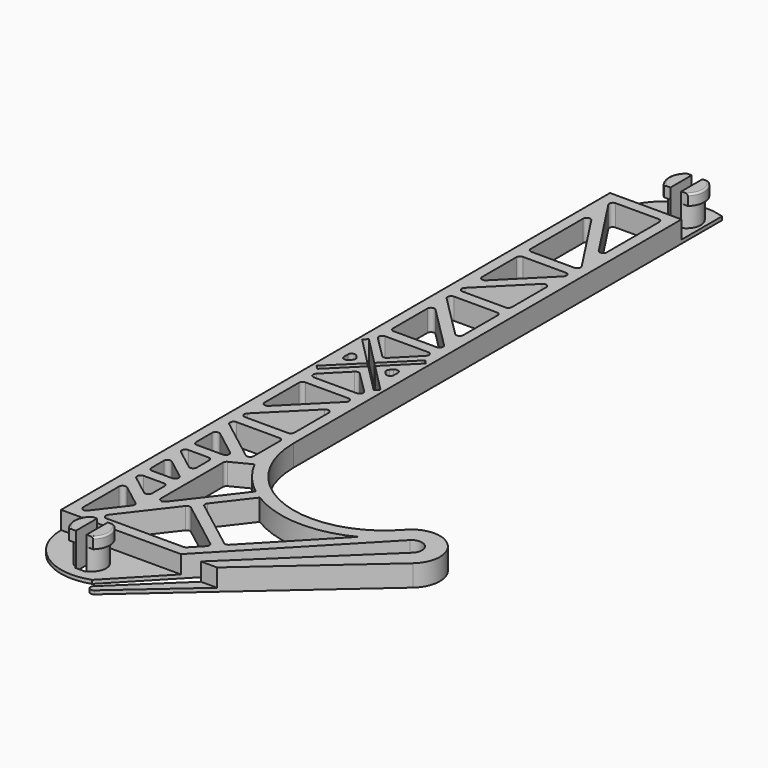
from build123d import *

# Parameters (mm, degrees)
PAD_DEPTH       = 6
POCKET_DEPTH    = 6.001
POCKET001_DEPTH = 6.001
SKETCH003_W     = 20
SKETCH003_H     = 15
SKETCH003_W_2   = 43.65183195
SKETCH003_H_2   = 17.970595096
POCKET002_DEPTH = 5
SKETCH004_R     = 4
PAD001_DEPTH    = 6
SKETCH005_W     = 3
SKETCH005_H     = 8
POCKET003_DEPTH = 7.001
PAD002_DEPTH    = 3
FILLET_R        = 0.5
FILLET001_R     = 0.5
FILLET002_R     = 0.5
FILLET003_R     = 0.5


with BuildPart() as part:
    # Sketch → Pad (new body)
    with BuildSketch(Plane.XY):
        with BuildLine():
            Line((148.7359710531, -99.0646793429), (148.7359710531, 92.9353206571))
            ThreePointArc((168.7359710531, 107.0774562808), (155.0757170152, 105.182769371), (148.7359710531, 92.9353206571))
            Line((168.7359710531, -42.6963517772), (168.7359710531, 107.0774562808))
            ThreePointArc((168.7359710531, -42.6963517772), (185.2022873789, -66.5007048599), (213.2847541452, -59.4891530095))
            ThreePointArc((224.5749857013, -70.7793845656), (224.9509601574, -59.1131785534), (213.2847541452, -59.4891530095))
            Line((172.271504959, -116.7423812201), (224.5749857013, -70.7793845656))
            ThreePointArc((170.8572913966, -115.3281676577), (170.8572913966, -116.7423812201), (172.271504959, -116.7423812201))
            Line((170.8572913966, -115.3281676577), (221.4154262515, -66.8913531464))
            ThreePointArc((221.4154262515, -66.8913531464), (221.4154262515, -62.6487124593), (217.1727855643, -62.6487124593))
            Line((168.7359710531, -113.2068473142), (217.1727855643, -62.6487124593))
            ThreePointArc((148.7359710531, -99.0646793429), (155.0757038094, -111.3121510664), (168.7359710531, -113.2068473142))
        make_face()
    extrude(amount=PAD_DEPTH)

    # Sketch001 → Pocket (cut, through all)
    with BuildSketch(Plane.XY.offset(6)):
        with BuildLine():
            Line((152.7359710531, -96.0646793429), (152.7367891599, -96.0646793429))
            ThreePointArc((152.7367891599, -96.0646793429), (153.1791071089, -95.961537655), (153.5301822182, -95.6733890069))
            Line((153.5301822182, -95.6733890069), (159.5858223582, -87.780458872))
            ThreePointArc((159.5858223582, -87.780458872), (159.7838656428, -87.0411583276), (159.4011389639, -86.3783561497))
            Line((153.3446807171, -81.7317000868), (159.4011389639, -86.3783561497))
            ThreePointArc((153.3446807171, -81.7317000868), (152.2936531041, -81.628234833), (151.7359710531, -82.5250931451))
            Line((151.7359710531, -82.5250931451), (151.7359710531, -95.0646793429))
            ThreePointArc((151.7359710531, -95.0646793429), (152.0288642719, -95.7717861241), (152.7359710531, -96.0646793429))
        make_face()
        with BuildLine():
            Line((181.2995721208, -95.7564750234), (184.2650656159, -92.6611059009))
            ThreePointArc((184.2650656159, -92.6611059009), (184.5400708705, -91.8931888099), (184.1516819782, -91.175917162))
            Line((170.2218969641, -80.48866112), (184.1516819782, -91.175917162))
            ThreePointArc((170.2218969641, -80.48866112), (169.4825964196, -80.2906178354), (168.8197942418, -80.6733445143))
            Line((158.2454426693, -94.4559696794), (168.8197942418, -80.6733445143))
            ThreePointArc((158.2454426693, -94.4559696794), (158.1419774154, -95.5069972924), (159.0388357276, -96.0646793434))
            Line((159.0388357276, -96.0646793434), (180.5774788192, -96.0646793428))
            ThreePointArc((180.5774788192, -96.0646793428), (180.9700372985, -95.9844063894), (181.2995721208, -95.7564750234))
        make_face()
        with BuildLine():
            ThreePointArc((168.3251941446, -55.8403621644), (171.8718351833, -61.2314269413), (176.5228416911, -65.7047233266))
            Line((176.5228416911, -65.7047233266), (164.1945320222, -81.7734600165))
            ThreePointArc((162.4011389639, -81.1647503525), (163.0797303908, -82.1116909679), (164.1945320222, -81.7734600165))
            Line((162.4011389639, -59.4659381864), (162.4011389639, -81.1647503525))
            ThreePointArc((162.9478962905, -58.5745510208), (162.5487180956, -58.9430819315), (162.4011389639, -59.4659381864))
            Line((168.3251941446, -55.8403621644), (162.9478962905, -58.5745510208))
        make_face()
        with BuildLine():
            ThreePointArc((178.9977298785, -67.4074084544), (193.0611065516, -71.6749081283), (207.410667663, -68.4999730383))
            Line((187.744964536, -89.0288606521), (207.410667663, -68.4999730383))
            ThreePointArc((186.4141293696, -89.1304916423), (187.0989836503, -89.3341953684), (187.744964536, -89.0288606521))
            Line((172.0480259561, -78.1084819452), (186.4141293696, -89.1304916423))
            ThreePointArc((171.8633425618, -76.7063792229), (171.6652992773, -77.4456797673), (172.0480259561, -78.1084819452))
            Line((171.8633425618, -76.7063792229), (178.9977298785, -67.4074084544))
        make_face()
        with BuildLine():
            Line((159.4011389639, -76.2230465772), (159.4011389639, -80.5694955656))
            ThreePointArc((157.7924292999, -81.3628886239), (158.8434569129, -81.4663538777), (159.4011389639, -80.5694955656))
            Line((152.1272613891, -77.0164396355), (157.7924292999, -81.3628886239))
            ThreePointArc((152.7359710531, -75.2230465772), (151.7890304377, -75.9016380041), (152.1272613891, -77.0164396355))
            Line((158.4011389639, -75.2230465772), (152.7359710531, -75.2230465772))
            ThreePointArc((159.4011389639, -76.2230465772), (159.1082457451, -75.515939796), (158.4011389639, -75.2230465772))
        make_face()
        with BuildLine():
            Line((157.7924292999, -65.7143930675), (152.1272613891, -61.3679440791))
            ThreePointArc((152.7359710531, -59.5745510208), (151.7890304377, -60.2531424477), (152.1272613891, -61.3679440791))
            Line((152.7359710531, -59.5745510208), (158.4011389639, -59.5745510208))
            ThreePointArc((159.4011389639, -60.5745510208), (159.1082457451, -59.8674442396), (158.4011389639, -59.5745510208))
            Line((159.4011389639, -60.5745510208), (159.4011389639, -64.9210000092))
            ThreePointArc((157.7924292999, -65.7143930675), (158.8434569129, -65.8178583213), (159.4011389639, -64.9210000092))
        make_face()
        with BuildLine():
            Line((159.0098486279, -70.4296535189), (153.3446807171, -66.0832045305))
            ThreePointArc((153.3446807171, -66.0832045305), (152.2936531041, -65.9797392767), (151.7359710531, -66.8765975888))
            Line((151.7359710531, -71.2230465772), (151.7359710531, -66.8765975888))
            ThreePointArc((151.7359710531, -71.2230465772), (152.0288642719, -71.9301533584), (152.7359710531, -72.2230465772))
            Line((158.4011389639, -72.2230465772), (152.7359710531, -72.2230465772))
            ThreePointArc((158.4011389639, -72.2230465772), (159.3480795793, -71.5444551503), (159.0098486279, -70.4296535189))
        make_face()
        with BuildLine():
            Line((152.7359710531, -56.5745510208), (160.0039365321, -56.5745510208))
            ThreePointArc((160.0039365321, -56.5745510208), (160.9508771475, -55.8959595939), (160.6126461961, -54.7811579625))
            Line((153.3446807171, -49.2050052869), (160.6126461961, -54.7811579625))
            ThreePointArc((153.3446807171, -49.2050052869), (152.2936531041, -49.1015400331), (151.7359710531, -49.9983983452))
            Line((151.7359710531, -49.9983983452), (151.7359710531, -55.5745510208))
            ThreePointArc((151.7359710531, -55.5745510208), (152.0288642719, -56.281657802), (152.7359710531, -56.5745510208))
        make_face()
        with BuildLine():
            Line((152.1272613891, -44.4897448355), (164.1272613891, -53.6964247931))
            ThreePointArc((164.1272613891, -53.6964247931), (165.1782890021, -53.7998900469), (165.7359710531, -52.9030317348))
            Line((165.7359710531, -52.9030317348), (165.7359710531, -43.6963517772))
            ThreePointArc((165.7359710531, -43.6963517772), (165.4430778343, -42.989244996), (164.7359710531, -42.6963517772))
            Line((164.7359710531, -42.6963517772), (152.7359710531, -42.6963517772))
            ThreePointArc((152.7359710531, -42.6963517772), (151.7890304377, -43.3749432041), (152.1272613891, -44.4897448355))
        make_face()
        with BuildLine():
            Line((152.7359710531, -39.6963517772), (164.7359710531, -39.6963517772))
            ThreePointArc((164.7359710531, -39.6963517772), (165.4430778343, -39.4034585584), (165.7359710531, -38.6963517772))
            Line((165.7359710531, -26.6963517772), (165.7359710531, -38.6963517772))
            ThreePointArc((165.7359710531, -26.6963517772), (165.1186544854, -25.7724722447), (164.0288642719, -25.9892449961))
            Line((152.0288642719, -37.989244996), (164.0288642719, -25.9892449961))
            ThreePointArc((152.0288642719, -37.989244996), (151.8120915206, -39.0790352096), (152.7359710531, -39.6963517772))
        make_face()
        with BuildLine():
            Line((153.4430778343, -32.3323907465), (165.4430778343, -20.3323907466))
            ThreePointArc((165.4430778343, -20.3323907466), (165.6598505856, -19.242600533), (164.7359710531, -18.6252839654))
            Line((152.7359710531, -18.6252839654), (164.7359710531, -18.6252839654))
            ThreePointArc((152.7359710531, -18.6252839654), (152.0288642719, -18.9181771842), (151.7359710531, -19.6252839654))
            Line((151.7359710531, -19.6252839654), (151.7359710531, -31.6252839654))
            ThreePointArc((151.7359710531, -31.6252839654), (152.3532876207, -32.5491634979), (153.4430778343, -32.3323907465))
        make_face()
        with BuildLine():
            Line((152.7359710531, 12.3080440708), (164.7359710531, 12.3080440708))
            ThreePointArc((164.7359710531, 12.3080440708), (165.6598505856, 12.9253606384), (165.4430778343, 14.015150852))
            Line((165.4430778343, 14.015150852), (153.4430778343, 26.015150852))
            ThreePointArc((153.4430778343, 26.015150852), (152.3532876207, 26.2319236033), (151.7359710531, 25.3080440708))
            Line((151.7359710531, 13.3080440708), (151.7359710531, 25.3080440708))
            ThreePointArc((151.7359710531, 13.3080440708), (152.0288642719, 12.6009372896), (152.7359710531, 12.3080440708))
        make_face()
        with BuildLine():
            Line((152.0288642719, 31.6720051015), (164.0288642719, 19.6720051015))
            ThreePointArc((164.0288642719, 19.6720051015), (165.1186544854, 19.4552323501), (165.7359710531, 20.3791118827))
            Line((165.7359710531, 20.3791118827), (165.7359710531, 32.3791118826))
            ThreePointArc((165.7359710531, 32.3791118826), (165.4430778343, 33.0862186638), (164.7359710531, 33.3791118826))
            Line((164.7359710531, 33.3791118826), (152.7359710531, 33.3791118826))
            ThreePointArc((152.7359710531, 33.3791118826), (151.8120915206, 32.761795315), (152.0288642719, 31.6720051015))
        make_face()
        with BuildLine():
            Line((159.3886888986, -7.9153772295), (165.4400451355, -13.9151574369))
            ThreePointArc((164.7359710531, -15.6252839654), (165.6606673623, -15.0059895416), (165.4400451355, -13.9151574369))
            Line((164.7359710531, -15.6252839654), (152.7359710531, -15.6252839654))
            ThreePointArc((152.0258445246, -13.9212098829), (151.8129125277, -15.0099435016), (152.7359710531, -15.6252839654))
            Line((152.0258445246, -13.9212098829), (157.9744882877, -7.9214296755))
            ThreePointArc((159.3886888986, -7.9153772295), (158.6803350906, -7.6255129161), (157.9744882877, -7.9214296755))
        make_face()
        with BuildLine():
            Line((152.0318969706, 7.5979175423), (158.0832532075, 1.598137335))
            ThreePointArc((158.0832532075, 1.598137335), (158.7916070156, 1.3082730215), (159.4974538185, 1.604189781))
            Line((159.4974538185, 1.604189781), (165.4460975815, 7.6039699883))
            ThreePointArc((165.4460975815, 7.6039699883), (165.6590295784, 8.692703607), (164.7359710531, 9.3080440708))
            Line((152.7359710531, 9.3080440708), (164.7359710531, 9.3080440708))
            ThreePointArc((152.7359710531, 9.3080440708), (151.8112747439, 8.688749647), (152.0318969706, 7.5979175423))
        make_face()
        with BuildLine():
            Line((151.7359710531, -2.4338384632), (151.7359710531, -3.7951117671))
            ThreePointArc((151.7359710531, -3.7951117671), (152.3552654769, -4.7198080763), (153.4460975815, -4.4991858495))
            Line((153.4460975815, -4.4991858495), (154.1267093003, -3.8127233747))
            ThreePointArc((154.1267093003, -3.8127233747), (154.4165736138, -3.1043695667), (154.1206568544, -2.3985227638))
            Line((153.4400451355, -1.7237119347), (154.1206568543, -2.3985227638))
            ThreePointArc((153.4400451355, -1.7237119347), (152.3513115169, -1.5107799378), (151.7359710531, -2.4338384632))
        make_face()
        with BuildLine():
            Line((165.7359710531, -2.5221281275), (165.7359710531, -3.8834014314))
            ThreePointArc((164.0318969706, -4.5935279599), (165.1206305893, -4.8064599568), (165.7359710531, -3.8834014314))
            Line((163.3512852518, -3.9187171308), (164.0318969706, -4.5935279599))
            ThreePointArc((163.3452328058, -2.5045165198), (163.0553684923, -3.2128703279), (163.3512852518, -3.9187171308))
            Line((164.0258445246, -1.818054045), (163.3452328058, -2.5045165198))
            ThreePointArc((165.7359710531, -2.5221281275), (165.1166766293, -1.5974318183), (164.0258445246, -1.818054045))
        make_face()
        with BuildLine():
            Line((152.7359710531, 36.3791118826), (164.7359710531, 36.3791118826))
            ThreePointArc((164.7359710531, 36.3791118826), (165.4430778343, 36.6720051015), (165.7359710531, 37.3791118826))
            Line((165.7359710531, 37.3791118826), (165.7359710531, 49.3791118826))
            ThreePointArc((165.7359710531, 49.3791118826), (165.1186544854, 50.3029914152), (164.0288642719, 50.0862186638))
            Line((152.0288642719, 38.0862186638), (164.0288642719, 50.0862186638))
            ThreePointArc((152.0288642719, 38.0862186638), (151.8120915206, 36.9964284503), (152.7359710531, 36.3791118826))
        make_face()
        with BuildLine():
            Line((153.4430778343, 43.7430729133), (165.4430778343, 55.7430729133))
            ThreePointArc((165.4430778343, 55.7430729133), (165.6598505856, 56.8328631269), (164.7359710531, 57.4501796945))
            Line((152.7359710531, 57.4501796945), (164.7359710531, 57.4501796945))
            ThreePointArc((152.7359710531, 57.4501796945), (152.0288642719, 57.1572864757), (151.7359710531, 56.4501796945))
            Line((151.7359710531, 44.4501796945), (151.7359710531, 56.4501796945))
            ThreePointArc((151.7359710531, 44.4501796945), (152.3532876207, 43.526300162), (153.4430778343, 43.7430729133))
        make_face()
        with BuildLine():
            Line((152.7359710531, 60.4501796945), (164.7359710531, 60.4501796945))
            ThreePointArc((164.7359710531, 60.4501796945), (165.6155498041, 60.9744263753), (165.5728960737, 61.997497253))
            Line((165.5728960737, 61.997497253), (153.5728960737, 80.3471739461))
            ThreePointArc((153.5728960737, 80.3471739461), (152.4504233518, 80.7582208852), (151.7359710531, 79.7998563875))
            Line((151.7359710531, 61.4501796945), (151.7359710531, 79.7998563875))
            ThreePointArc((151.7359710531, 61.4501796945), (152.0288642719, 60.7430729133), (152.7359710531, 60.4501796945))
        make_face()
        with BuildLine():
            Line((151.8990460325, 88.3880030986), (163.8990460325, 70.0383264055))
            ThreePointArc((163.8990460325, 70.0383264055), (165.0215187543, 69.6272794664), (165.7359710531, 70.585643964))
            Line((165.7359710531, 88.9353206571), (165.7359710531, 70.585643964))
            ThreePointArc((165.7359710531, 88.9353206571), (165.4430778343, 89.6424274383), (164.7359710531, 89.9353206571))
            Line((152.7359710531, 89.9353206571), (164.7359710531, 89.9353206571))
            ThreePointArc((152.7359710531, 89.9353206571), (151.856392302, 89.4110739763), (151.8990460325, 88.3880030986))
        make_face()
    extrude(amount=-POCKET_DEPTH, mode=Mode.SUBTRACT)

    # Sketch002 → Pocket001 (cut, through all)
    with BuildSketch(Plane.XY.offset(6)):
        Polygon((149.7359710531, -10.9460106247), (157.6818029085, -3.0646793429), (149.7359710531, 4.9663143869), (150.8009448988, 6.0226432694), (158.7467767542, -2.0083504604), (166.6809795455, 5.8614461566), (167.7359710531, 4.795147456), (159.7919041651, -3.0646793429), (167.7359710531, -11.0938891887), (166.6709972074, -12.1502180712), (158.7269303194, -4.1210082254), (150.781098464, -12.0023395072), align=None)
    extrude(amount=-POCKET001_DEPTH, mode=Mode.SUBTRACT)

    # Sketch003 → Pocket002 (cut)
    with BuildSketch(Plane.XY.offset(6)):
        with Locations((158.7359710531, 100.4353206571)):
            Rectangle(SKETCH003_W, SKETCH003_H)
        with Locations((170.5618870281, -108.0499768909)):
            Rectangle(SKETCH003_W_2, SKETCH003_H_2)
    extrude(amount=-POCKET002_DEPTH, mode=Mode.SUBTRACT)

    # Sketch004 → Pad001 (new body)
    with BuildSketch(Plane.XY.offset(1)):
        with Locations((163.7359710531, -107.0646793429)):
            Circle(SKETCH004_R)
        with Locations((163.7359710531, 100.9353206571)):
            Circle(SKETCH004_R)
    extrude(amount=PAD001_DEPTH)

    # Sketch005 → Pocket003 (cut, through all)
    with BuildSketch(Plane.XY.offset(7)):
        with Locations((163.7359710531, -107.0646793429)):
            Rectangle(SKETCH005_W, SKETCH005_H)
        with Locations((163.7359710531, 100.9353206571)):
            Rectangle(SKETCH005_W, SKETCH005_H)
    extrude(amount=-POCKET003_DEPTH, mode=Mode.SUBTRACT)

    # Sketch006 → Pad002 (new body)
    with BuildSketch(Plane.XY.offset(7)):
        with BuildLine():
            ThreePointArc((167.0900730193, 97.2272214135), (168.7359710531, 100.9353206571), (167.0900730193, 104.6434199006))
            Line((165.2359710531, 104.6434199006), (167.0900730193, 104.6434199006))
            Line((165.2359710531, 104.6434199006), (165.2359710531, 97.2272214135))
            Line((165.2359710531, 97.2272214135), (167.0900730193, 97.2272214135))
        make_face()
        with BuildLine():
            ThreePointArc((160.3818690868, 104.6434199006), (158.7359710531, 100.9353206571), (160.3818690868, 97.2272214135))
            Line((160.3818690868, 97.2272214135), (162.2359710531, 97.2272214135))
            Line((162.2359710531, 104.6434199006), (162.2359710531, 97.2272214135))
            Line((160.3818690868, 104.6434199006), (162.2359710531, 104.6434199006))
        make_face()
        with BuildLine():
            Line((165.2359710531, -103.3565800994), (165.2359710531, -110.7727785865))
            Line((165.2359710531, -110.7727785865), (167.0900730193, -110.7727785865))
            ThreePointArc((167.0900730193, -110.7727785865), (168.7359710531, -107.0646793429), (167.0900730193, -103.3565800994))
            Line((165.2359710531, -103.3565800994), (167.0900730193, -103.3565800994))
        make_face()
        with BuildLine():
            Line((162.2359710531, -103.3565800994), (162.2359710531, -110.7727785865))
            Line((160.3818690868, -110.7727785865), (162.2359710531, -110.7727785865))
            ThreePointArc((160.3818690868, -103.3565800994), (158.7359710531, -107.0646793429), (160.3818690868, -110.7727785865))
            Line((160.3818690868, -103.3565800994), (162.2359710531, -103.3565800994))
        make_face()
    extrude(amount=PAD002_DEPTH)

    # Fillet
    fillet_edges = [part.edges().sort_by_distance(p)[0] for p in [
        (168.735971, 100.935321, 10),
    ]]
    fillet(fillet_edges, radius=FILLET_R)

    # Fillet001
    fillet001_edges = [part.edges().sort_by_distance(p)[0] for p in [
        (158.735971, 100.935321, 10),
    ]]
    fillet(fillet001_edges, radius=FILLET001_R)

    # Fillet002
    fillet002_edges = [part.edges().sort_by_distance(p)[0] for p in [
        (168.735971, -107.064679, 10),
    ]]
    fillet(fillet002_edges, radius=FILLET002_R)

    # Fillet003
    fillet003_edges = [part.edges().sort_by_distance(p)[0] for p in [
        (158.735971, -107.064679, 10),
    ]]
    fillet(fillet003_edges, radius=FILLET003_R)


solid = part.part
